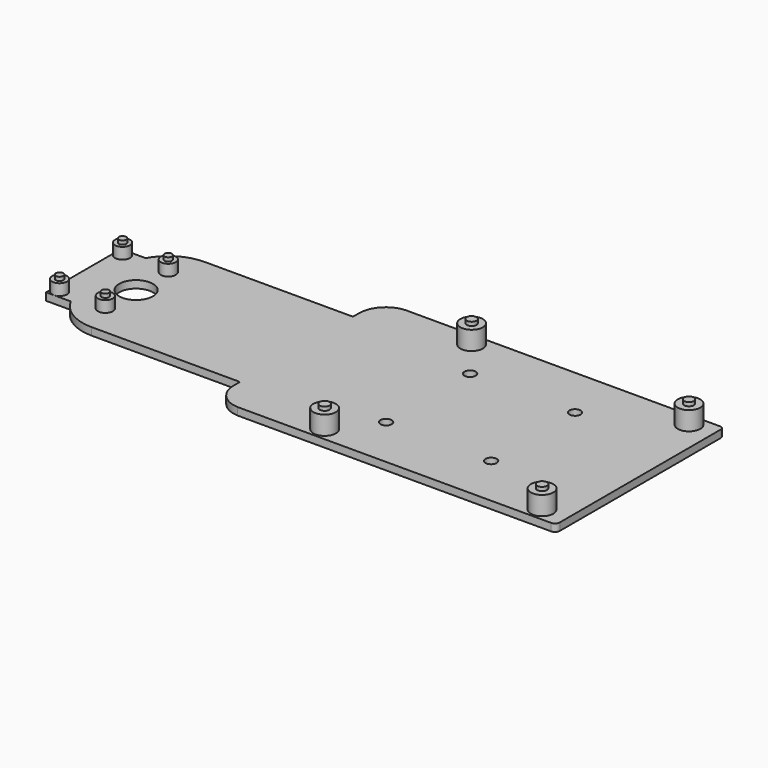
from build123d import *

# Parameters (mm, degrees)
SKETCH_R                  = 1.4
SKETCH_R_2                = 1.5
PAD_DEPTH                 = 2
SKETCH002_R               = 6.353363
PAD002_DEPTH              = 2
CYLINDER022_R             = 1.3
CYLINDER022_DEPTH         = 8
CYLINDER021_R             = 3
CYLINDER021_DEPTH         = 7
CYLINDER019_R             = 1.3
CYLINDER019_DEPTH         = 8
CYLINDER020_R             = 3
CYLINDER020_DEPTH         = 7
CYLINDER011_R             = 1.3
CYLINDER011_DEPTH         = 8
CYLINDER008_R             = 3
CYLINDER008_DEPTH         = 7
CYLINDER013_R             = 1.3
CYLINDER013_DEPTH         = 8
CYLINDER012_R             = 3
CYLINDER012_DEPTH         = 7
CYLINDER006_R             = 1
CYLINDER006_DEPTH         = 6
CYLINDER005_R             = 2
CYLINDER005_DEPTH         = 5
CYLINDER007_R             = 1
CYLINDER007_DEPTH         = 6
CYLINDER004_R             = 2
CYLINDER004_DEPTH         = 5
CYLINDER003_R             = 1
CYLINDER003_DEPTH         = 6
CYLINDER002_R             = 2
CYLINDER002_DEPTH         = 5
CYLINDER001_R             = 1
CYLINDER001_DEPTH         = 6
CYLINDER_R                = 2
CYLINDER_DEPTH            = 5
SKETCH001_W               = 25
SKETCH001_H               = 23.8
SKETCH001_R               = 1
SKETCH001_R_2             = 4.5
PAD001_DEPTH              = 2
FUSION006_PLACEMENT_ANGLE = 90


with BuildPart() as opa:
    # Sketch → Pad (new body)
    with BuildSketch(Plane.XY):
        with BuildLine():
            Line((-42.5, 28), (41.5, 28))
            ThreePointArc((42.5, 27), (42.207107, 27.707107), (41.5, 28))
            Line((42.5, 27), (42.5, -26.687649))
            ThreePointArc((41.187649, -28), (42.115621, -27.615621), (42.5, -26.687649))
            Line((41.187649, -28), (-42.5, -28))
            Line((-42.5, -28), (-42.5, 28))
        make_face()
        with Locations((-22, 24.5)):
            Circle(SKETCH_R, mode=Mode.SUBTRACT)
        with Locations((36, 24.5)):
            Circle(SKETCH_R, mode=Mode.SUBTRACT)
        with Locations((-14, 14)):
            Circle(SKETCH_R_2, mode=Mode.SUBTRACT)
        with Locations((14, 14)):
            Circle(SKETCH_R_2, mode=Mode.SUBTRACT)
        with Locations((-14, -14)):
            Circle(SKETCH_R_2, mode=Mode.SUBTRACT)
        with Locations((14, -14)):
            Circle(SKETCH_R_2, mode=Mode.SUBTRACT)
        with Locations((-22, -24.5)):
            Circle(SKETCH_R, mode=Mode.SUBTRACT)
        with Locations((36, -24.5)):
            Circle(SKETCH_R, mode=Mode.SUBTRACT)
    extrude(amount=PAD_DEPTH)


with BuildPart() as body002:
    # Sketch002 → Pad002 (new body)
    with BuildSketch(Plane.XY):
        with BuildLine():
            Line((-49.402144, 18.840823), (-88.680573, 18.840823))
            ThreePointArc((-88.680573, 18.840823), (-97.237161, 15.296568), (-100.781416, 6.73998))
            Line((-100.781416, 6.73998), (-100.781416, -6.73998))
            ThreePointArc((-100.781416, -6.73998), (-97.237161, -15.296568), (-88.680573, -18.840823))
            Line((-88.680573, -18.840823), (-49.411004, -18.840823))
            ThreePointArc((-49.109699, -19.142128), (-49.197949, -18.929073), (-49.411004, -18.840823))
            Line((-49.109699, -19.142128), (-49.109699, -20.971369))
            ThreePointArc((-49.109699, -20.971369), (-47.197032, -25.790971), (-42.5, -27.987504))
            Line((-42.5, -27.987504), (-42.5, 27.983629))
            ThreePointArc((-42.5, 27.983629), (-47.200179, 25.749755), (-49.109699, 20.908721))
            Line((-49.109699, 20.908721), (-49.109699, 19.133268))
            ThreePointArc((-49.402144, 18.840823), (-49.195354, 18.926478), (-49.109699, 19.133268))
        make_face()
        with Locations((-91.871376, 0)):
            Circle(SKETCH002_R, mode=Mode.SUBTRACT)
    extrude(amount=PAD002_DEPTH)


with BuildPart() as cylinder022:
    # Cylinder022 → Cylinder022 (new body)
    with BuildSketch(Plane.XY):
        Circle(CYLINDER022_R)
    extrude(amount=CYLINDER022_DEPTH)


with BuildPart() as fusion022:
    # Cylinder021 → Cylinder021 (new body)
    with BuildSketch(Plane.XY):
        Circle(CYLINDER021_R)
    extrude(amount=CYLINDER021_DEPTH)

    # Fusion022: union Cylinder022
    add(cylinder022.part)


with BuildPart() as fusion022_1:
    # Fusion022 placement: moved
    add(fusion022.part.moved(Location((-39, 24.5, 0))))


with BuildPart() as cylinder019:
    # Cylinder019 → Cylinder019 (new body)
    with BuildSketch(Plane.XY):
        Circle(CYLINDER019_R)
    extrude(amount=CYLINDER019_DEPTH)


with BuildPart() as fusion024:
    # Cylinder020 → Cylinder020 (new body)
    with BuildSketch(Plane.XY):
        Circle(CYLINDER020_R)
    extrude(amount=CYLINDER020_DEPTH)

    # Fusion023: union Cylinder019
    add(cylinder019.part)


with BuildPart() as fusion024_1:
    # Fusion023 placement: moved
    add(fusion024.part.moved(Location((-39, -24.5, 0))))

    # Fusion024: union Fusion022
    add(fusion022_1.part)


with BuildPart() as fusion024_2:
    # Fusion024 placement: moved
    add(fusion024_1.part.moved(Location((58, 0, 0))))


with BuildPart() as cylinder011:
    # Cylinder011 → Cylinder011 (new body)
    with BuildSketch(Plane.XY):
        Circle(CYLINDER011_R)
    extrude(amount=CYLINDER011_DEPTH)


with BuildPart() as fusion007:
    # Cylinder008 → Cylinder008 (new body)
    with BuildSketch(Plane.XY):
        Circle(CYLINDER008_R)
    extrude(amount=CYLINDER008_DEPTH)

    # Fusion007: union Cylinder011
    add(cylinder011.part)


with BuildPart() as fusion007_1:
    # Fusion007 placement: moved
    add(fusion007.part.moved(Location((-39, 24.5, 0))))


with BuildPart() as cylinder013:
    # Cylinder013 → Cylinder013 (new body)
    with BuildSketch(Plane.XY):
        Circle(CYLINDER013_R)
    extrude(amount=CYLINDER013_DEPTH)


with BuildPart() as fusion025:
    # Cylinder012 → Cylinder012 (new body)
    with BuildSketch(Plane.XY):
        Circle(CYLINDER012_R)
    extrude(amount=CYLINDER012_DEPTH)

    # Fusion008: union Cylinder013
    add(cylinder013.part)


with BuildPart() as fusion025_1:
    # Fusion008 placement: moved
    add(fusion025.part.moved(Location((-39, -24.5, 0))))

    # Fusion009: union Fusion007
    add(fusion007_1.part)

    # Fusion025: union Fusion024
    add(fusion024_2.part)


with BuildPart() as fusion025_2:
    # Fusion025 placement: moved
    add(fusion025_1.part.moved(Location((17, 0, 0))))


with BuildPart() as cylinder006:
    # Cylinder006 → Cylinder006 (new body)
    with BuildSketch(Plane.XY):
        Circle(CYLINDER006_R)
    extrude(amount=CYLINDER006_DEPTH)


with BuildPart() as fusion004:
    # Cylinder005 → Cylinder005 (new body)
    with BuildSketch(Plane.XY):
        Circle(CYLINDER005_R)
    extrude(amount=CYLINDER005_DEPTH)

    # Fusion004: union Cylinder006
    add(cylinder006.part)


with BuildPart() as fusion004_1:
    # Fusion004 placement: moved
    add(fusion004.part.moved(Location((10.5, -2.3, 0))))


with BuildPart() as cylinder007:
    # Cylinder007 → Cylinder007 (new body)
    with BuildSketch(Plane.XY):
        Circle(CYLINDER007_R)
    extrude(amount=CYLINDER007_DEPTH)


with BuildPart() as fusion005:
    # Cylinder004 → Cylinder004 (new body)
    with BuildSketch(Plane.XY):
        Circle(CYLINDER004_R)
    extrude(amount=CYLINDER004_DEPTH)

    # Fusion003: union Cylinder007
    add(cylinder007.part)


with BuildPart() as fusion005_1:
    # Fusion003 placement: moved
    add(fusion005.part.moved(Location((-10.5, -2.3, 0))))

    # Fusion005: union Fusion004
    add(fusion004_1.part)


with BuildPart() as fusion005_2:
    # Fusion005 placement: moved
    add(fusion005_1.part.moved(Location((0, 12.2, 0))))


with BuildPart() as cylinder003:
    # Cylinder003 → Cylinder003 (new body)
    with BuildSketch(Plane.XY):
        Circle(CYLINDER003_R)
    extrude(amount=CYLINDER003_DEPTH)


with BuildPart() as fusion001:
    # Cylinder002 → Cylinder002 (new body)
    with BuildSketch(Plane.XY):
        Circle(CYLINDER002_R)
    extrude(amount=CYLINDER002_DEPTH)

    # Fusion001: union Cylinder003
    add(cylinder003.part)


with BuildPart() as fusion001_1:
    # Fusion001 placement: moved
    add(fusion001.part.moved(Location((10.5, -2.3, 0))))


with BuildPart() as cylinder001:
    # Cylinder001 → Cylinder001 (new body)
    with BuildSketch(Plane.XY):
        Circle(CYLINDER001_R)
    extrude(amount=CYLINDER001_DEPTH)


with BuildPart() as fusion002:
    # Cylinder → Cylinder (new body)
    with BuildSketch(Plane.XY):
        Circle(CYLINDER_R)
    extrude(amount=CYLINDER_DEPTH)

    # Fusion: union Cylinder001
    add(cylinder001.part)


with BuildPart() as fusion002_1:
    # Fusion placement: moved
    add(fusion002.part.moved(Location((-10.5, -2.3, 0))))

    # Fusion002: union Fusion001
    add(fusion001_1.part)


with BuildPart() as obj1:
    # Sketch001 → Pad001 (new body)
    with BuildSketch(Plane.XY):
        Rectangle(SKETCH001_W, SKETCH001_H)
        with Locations((-10.5, 9.9)):
            Circle(SKETCH001_R, mode=Mode.SUBTRACT)
        with Locations((10.5, 9.9)):
            Circle(SKETCH001_R, mode=Mode.SUBTRACT)
        with Locations((-10.5, -2.3)):
            Circle(SKETCH001_R, mode=Mode.SUBTRACT)
        with Locations((10.5, -2.3)):
            Circle(SKETCH001_R, mode=Mode.SUBTRACT)
        with Locations((0, -2.1)):
            Circle(SKETCH001_R_2, mode=Mode.SUBTRACT)
    extrude(amount=PAD001_DEPTH)

    # Fusion006: union Fusion005, Fusion002
    add(fusion005_2.part)
    add(fusion002_1.part)


with BuildPart() as obj1_1:
    # Fusion006 placement: moved
    add(obj1.part.moved(Location((-94, 0, 0))).rotate(Axis((-94, 0, 0), (0, 0, 1)), FUSION006_PLACEMENT_ANGLE))

    # Fusion026: union opa, Body002, Fusion025
    add(opa.part)
    add(body002.part)
    add(fusion025_2.part)


solid = obj1_1.part
